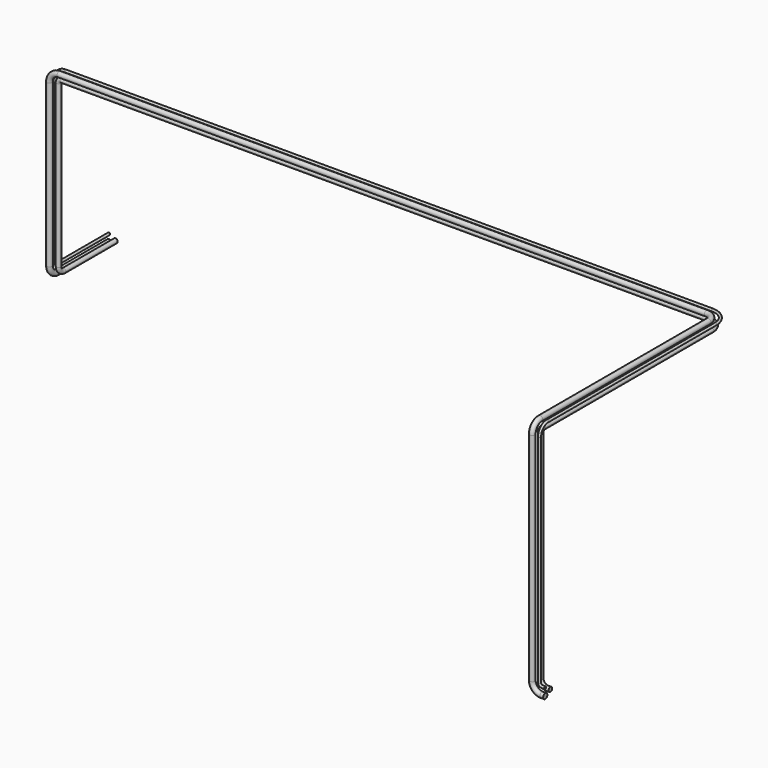
from build123d import *

# Parameters (mm, degrees)
F0_R   = 20.6375
F0_R_2 = 9.525
F0_R_3 = 17.4625


with BuildPart() as f10:
    # F10: sweep along a path in F1, F3, F5, F7, F9
    with BuildLine(Plane.XZ) as f10_path:
        Line((0, 0), (-25.4, 0))
        ThreePointArc((-25.4, 0), (-79.2815367264, 22.3184632736), (-101.6, 76.2))
        Line((-101.6, 76.2), (-101.6, 1778))
    with BuildLine(Plane.YZ.offset(-101.6)) as f10_path_2:
        ThreePointArc((0, 1778), (22.3184632736, 1831.8815367264), (76.2, 1854.2))
        Line((76.2, 1854.2), (1727.2, 1854.2))
    with BuildLine(Plane.XY.offset(1854.2)) as f10_path_3:
        ThreePointArc((-101.6, 1727.2), (-123.9184632736, 1781.0815367264), (-177.8, 1803.4))
        Line((-177.8, 1803.4), (-5257.8, 1803.4))
    with BuildLine(Plane.XZ.offset(-1803.4)) as f10_path_4:
        ThreePointArc((-5257.8, 1854.2), (-5311.6815367264, 1831.8815367264), (-5334, 1778))
        Line((-5334, 1778), (-5334, 508))
    with BuildLine(Plane.YZ.offset(-5334)) as f10_path_5:
        ThreePointArc((1803.4, 508), (1825.7184632736, 454.1184632736), (1879.6, 431.8))
        Line((1879.6, 431.8), (2387.6, 431.8))
    # F0 (on Right) → F10 (sweep)
    with BuildSketch(Plane.YZ):
        Circle(F0_R)
        with Locations((0, 57.15)):
            Circle(F0_R_2)
        with Locations((50.8, 25.4)):
            Circle(F0_R_3)
    sweep(path=f10_path.line + f10_path_2.line + f10_path_3.line + f10_path_4.line + f10_path_5.line)


solid = f10.part
